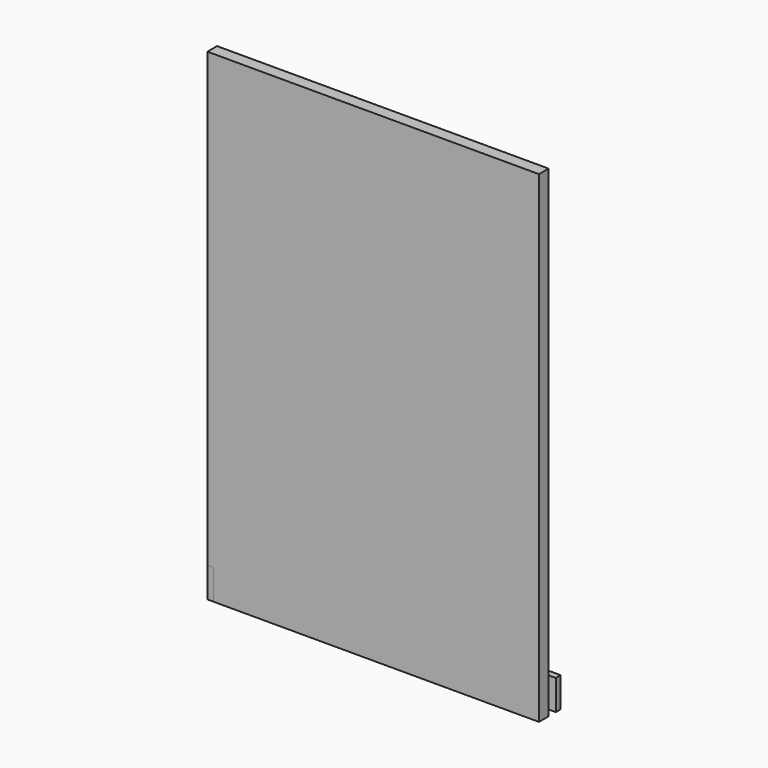
from build123d import *

# Parameters (mm, degrees)
F0_W      = 139.7
F0_H      = 203.2
F1_DEPTH  = 2.54
F3_W      = 139.7
F3_H      = 12.7
F1_FACE_W = 139.7
F1_FACE_H = 203.2
F4_DEPTH  = 2.54
F5_W      = 6.35
F5_H      = 12.7
F5_W_2    = 5.08
F6_DEPTH  = 2.54


with BuildPart() as f1:
    # F0 (on Front) → F1 (new body)
    with BuildSketch(Plane.XZ):
        with Locations((-35.7197444822, 7.7129285783)):
            Rectangle(F0_W, F0_H)
    extrude(amount=F1_DEPTH)

    # F3 (on offset) + F1_face (on face) → F4 (join)
    with BuildSketch(Plane.XZ.offset(-6.35)):
        with Locations((-35.7197444822, -87.5370714217)):
            Rectangle(F3_W, F3_H)
    with BuildSketch(Plane(origin=(-35.7197444822, 0, 7.7129285783), x_dir=(1, 0, 0), z_dir=(0, 1, 0))):
        Rectangle(F1_FACE_W, F1_FACE_H)
        Rectangle(F1_FACE_W, F1_FACE_H)
    extrude(amount=-F4_DEPTH, dir=(0, -1, 0))


with BuildPart() as f6:
    # F5 (on face) → F6 (new body)
    with BuildSketch(Plane(origin=(-105.5697444822, 0, 0), x_dir=(0, -1, 0), z_dir=(-1, 0, 0))):
        with Locations((-5.715, -87.5370714217)):
            Rectangle(F5_W, F5_H)
        with Locations((0, -87.5370714217)):
            Rectangle(F5_W_2, F5_H)
    extrude(amount=-F6_DEPTH)


solid = Compound([f1.part, f6.part])
